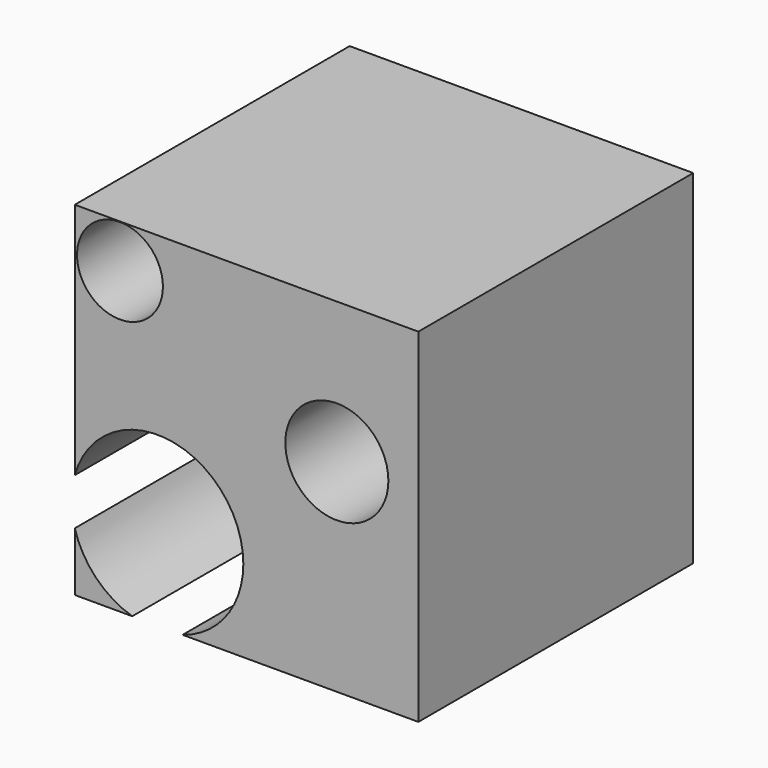
from build123d import *

# Parameters (mm, degrees)
F0_W     = 100
F0_H     = 100
F1_DEPTH = 100
F2_R     = 12.5
F2_R_2   = 15
F3_DEPTH = 100.001


with BuildPart() as f1:
    # F0 (on Top) → F1 (new body)
    with BuildSketch(Plane.XY):
        Rectangle(F0_W, F0_H)
    extrude(amount=F1_DEPTH)

    # F2 (on face) → F3 (cut, through all)
    with BuildSketch(Plane.XZ.offset(50)):
        with Locations((-36.8491448462, 87.3549953103)):
            Circle(F2_R)
        with BuildLine():
            ThreePointArc((-18.6146697117, 0), (-5.8407419685, 9.0392378752), (-0.9431209415, 23.9017531276))
            ThreePointArc((-0.9431209415, 23.9017531276), (-22.5096079054, 48.6648504345), (-50, 30.703706521))
            Line((-50, 30.703706521), (-50, 17.0997997342))
            ThreePointArc((-50, 17.0997997342), (-43.8137820111, 6.4192054604), (-33.2715721714, 0))
            Line((-33.2715721714, 0), (-18.6146697117, 0))
        make_face()
        with Locations((26.2736044824, 58.9332319796)):
            Circle(F2_R_2)
    extrude(amount=-F3_DEPTH, mode=Mode.SUBTRACT)


solid = f1.part
